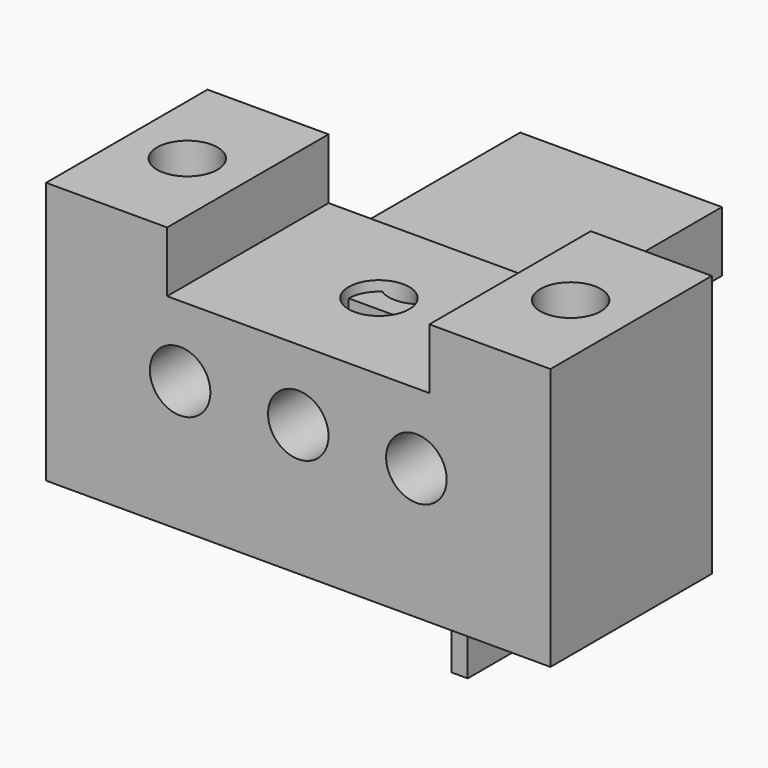
from build123d import *

# Parameters (mm, degrees)
SKETCH_R     = 1.5
PAD_DEPTH    = 10
SKETCH001_R  = 1.5
POCKET_DEPTH = 13.001
SKETCH002_W  = 10
SKETCH002_H  = 15
SKETCH002_R  = 1.5
PAD001_DEPTH = 3
SKETCH003_W  = 0.8
SKETCH003_H  = 10
PAD002_DEPTH = 15


with BuildPart() as obj1:
    # Sketch → Pad (new body)
    with BuildSketch(Plane.XZ):
        Polygon((-12.5, 6.5), (-12.5, -6.5), (12.5, -6.5), (12.5, 6.5), (6.5, 6.5), (6.5, 3.5), (-6.5, 3.5), (-6.5, 6.5), align=None)
        with Locations((-5.85553, 0)):
            Circle(SKETCH_R, mode=Mode.SUBTRACT)
        Circle(SKETCH_R, mode=Mode.SUBTRACT)
        with Locations((5.85553, 0)):
            Circle(SKETCH_R, mode=Mode.SUBTRACT)
    extrude(amount=PAD_DEPTH)

    # Sketch001 (on Face2 of Pad) → Pocket (cut, through all)
    with BuildSketch(Plane(origin=(0, 0, -6.5), x_dir=(1, 0, 0), z_dir=(0, 0, -1))):
        with Locations((-9.5, 5)):
            Circle(SKETCH001_R)
        with Locations((0, 5)):
            Circle(SKETCH001_R)
        with Locations((9.5, 5)):
            Circle(SKETCH001_R)
    extrude(amount=-POCKET_DEPTH, mode=Mode.SUBTRACT)


with BuildPart() as obj2:
    # Sketch002 → Pad001 (new body)
    with BuildSketch(Plane.XY):
        with Locations((0, 2.5)):
            Rectangle(SKETCH002_W, SKETCH002_H)
        with Locations((0, -2.5)):
            Circle(SKETCH002_R, mode=Mode.SUBTRACT)
    extrude(amount=PAD001_DEPTH)

    # Sketch003 (on Face6 of Pad001) → Pad002 (join)
    with BuildSketch(Plane(origin=(0, 0, 0), x_dir=(1, 0, 0), z_dir=(0, 0, -1))):
        with Locations((0, -5)):
            Rectangle(SKETCH003_W, SKETCH003_H)
    extrude(amount=PAD002_DEPTH)


solid = Compound([obj1.part, obj2.part])
